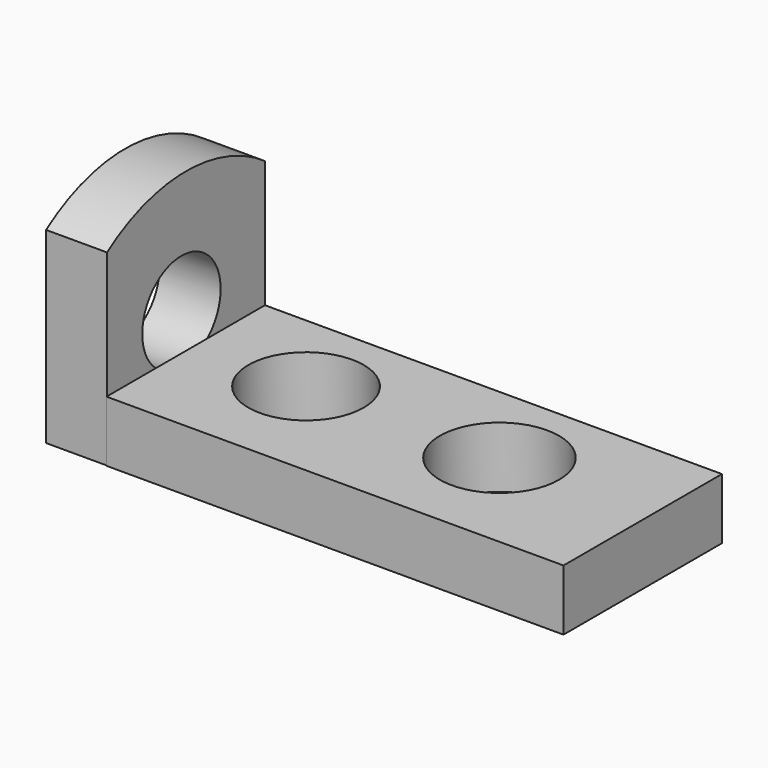
from build123d import *

# Parameters (mm, degrees)
F0_W     = 190.5
F0_H     = 82.55
F1_DEPTH = 25.4
F2_R     = 24.065659
F2_R_2   = 24.842685
F3_DEPTH = 25.4
F5_DEPTH = 25.4
F4_W     = 82.389932
F4_H     = 78.229174
F6_DEPTH = 25.4
F7_R     = 20.429763
F8_DEPTH = 25.4


with BuildPart() as f1:
    # F0 (on Top) → F1 (new body)
    with BuildSketch(Plane.XY):
        with Locations((24.379437, -4.978355)):
            Rectangle(F0_W, F0_H)
    extrude(amount=F1_DEPTH)

    # F2 (on face) → F3 (cut)
    with BuildSketch(Plane.XY.offset(25.4)):
        with Locations((-24.703378, 0)):
            Circle(F2_R)
        with Locations((55.932678, 0)):
            Circle(F2_R_2)
    extrude(amount=-F3_DEPTH, mode=Mode.SUBTRACT)


with BuildPart() as f5:
    # F4 (on face) → F5 (new body)
    with BuildSketch(Plane(origin=(-70.870563, 0, 0), x_dir=(0, -1, 0), z_dir=(-1, 0, 0))):
        with BuildLine():
            ThreePointArc((45.9936, 78.229174), (4.798634, 91.309401), (-36.396332, 78.229174))
            Line((-36.396332, 78.229174), (45.9936, 78.229174))
        make_face()
    extrude(amount=F5_DEPTH)


with BuildPart() as f6:
    # F4 (on face) → F6 (new body)
    with BuildSketch(Plane(origin=(-70.870563, 0, 0), x_dir=(0, -1, 0), z_dir=(-1, 0, 0))):
        with Locations((4.798634, 39.114587)):
            Rectangle(F4_W, F4_H)
        with BuildLine():
            ThreePointArc((45.9936, 78.229174), (4.798634, 91.309401), (-36.396332, 78.229174))
            Line((-36.396332, 78.229174), (45.9936, 78.229174))
        make_face()
    extrude(amount=F6_DEPTH)

    # F7 (on face) → F8 (cut)
    with BuildSketch(Plane(origin=(-96.270563, 0, 0), x_dir=(0, -1, 0), z_dir=(-1, 0, 0))):
        with Locations((7.202209, 40.785816)):
            Circle(F7_R)
    extrude(amount=-F8_DEPTH, mode=Mode.SUBTRACT)


solid = Compound([f1.part, f5.part, f6.part])
